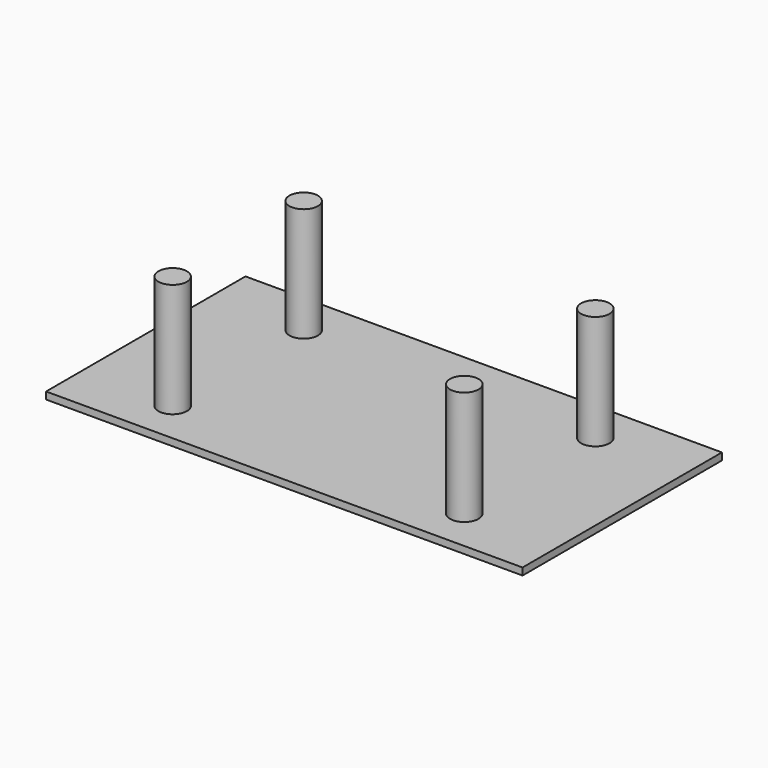
from build123d import *

# Parameters (mm, degrees)
F0_R     = 50.8
F0_W     = 25.4
F0_H     = 127
F1_DEPTH = 25.4
F2_DEPTH = 431.8


with BuildPart() as f1:
    # F0 (on Top) → F1 (new body)
    with BuildSketch(Plane.XY):
        Polygon((-190.5, 508), (-190.5, 381), (-12.7, 381), (12.7, 381), (190.5, 381), (190.5, 508), align=None)
        Polygon((190.5, 381), (12.7, 381), (12.7, 254), (12.7, 127), (12.7, 0), (12.7, -127), (12.7, -254), (12.7, -381), (190.5, -381), align=None)
        Polygon((849.801779, 508), (190.5, 508), (190.5, 381), (190.5, -381), (849.801779, -381), align=None)
        with Locations((520.150889, -228.6)):
            Circle(F0_R, mode=Mode.SUBTRACT)
        with Locations((520.150889, 355.6)):
            Circle(F0_R, mode=Mode.SUBTRACT)
        with Locations((520.150889, 355.6)):
            Circle(F0_R)
        with Locations((520.150889, -228.6)):
            Circle(F0_R)
        Polygon((-12.7, 381), (-190.5, 381), (-190.5, -381), (-12.7, -381), (-12.7, -254), (-12.7, -127), (-12.7, 0), (-12.7, 127), (-12.7, 254), align=None)
        Polygon((-190.5, -381), (-190.5, 381), (-190.5, 508), (-849.801779, 508), (-849.801779, -381), align=None)
        with Locations((-520.150889, -228.6)):
            Circle(F0_R, mode=Mode.SUBTRACT)
        with Locations((-520.150889, 355.6)):
            Circle(F0_R, mode=Mode.SUBTRACT)
        with Locations((-520.150889, 355.6)):
            Circle(F0_R)
        with Locations((-520.150889, -228.6)):
            Circle(F0_R)
        with Locations((0, -317.5)):
            Rectangle(F0_W, F0_H)
        with Locations((0, -190.5)):
            Rectangle(F0_W, F0_H)
        with Locations((0, -63.5)):
            Rectangle(F0_W, F0_H)
        with Locations((0, 63.5)):
            Rectangle(F0_W, F0_H)
        with Locations((0, 317.5)):
            Rectangle(F0_W, F0_H)
        with Locations((0, 190.5)):
            Rectangle(F0_W, F0_H)
    extrude(amount=F1_DEPTH)

    # F0 (on Top) → F2 (join)
    with BuildSketch(Plane.XY):
        with Locations((-520.150889, 355.6)):
            Circle(F0_R)
        with Locations((520.150889, 355.6)):
            Circle(F0_R)
        with Locations((520.150889, -228.6)):
            Circle(F0_R)
        with Locations((-520.150889, -228.6)):
            Circle(F0_R)
    extrude(amount=F2_DEPTH)


solid = f1.part
